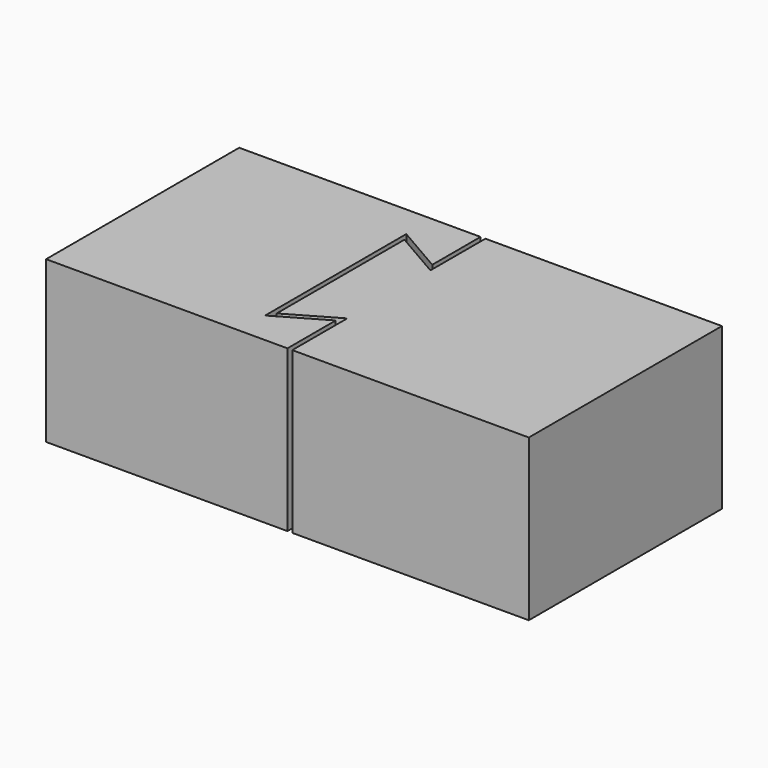
from build123d import *

# Parameters (mm, degrees)
F1_DEPTH = 10
F2_DEPTH = 10


with BuildPart() as f1:
    # F0 (on Top) → F1 (new body)
    with BuildSketch(Plane.XY):
        Polygon((9.362652, 11.106927), (-5.637348, 11.106927), (-5.637348, -3.893073), (9.362652, -3.893073), (9.362652, -0.143073), (6.362652, -1.875124), (6.362652, 3.606927), (6.362652, 9.088978), (9.362652, 7.356927), align=None)
    extrude(amount=F1_DEPTH)


with BuildPart() as f2:
    # F0 (on Top) → F2 (new body)
    with BuildSketch(Plane.XY):
        Polygon((24.362652, 11.106927), (9.662651, 11.106927), (9.662651, 6.837313), (6.662651, 8.569363), (6.662651, 3.606927), (6.662651, -1.355509), (9.662651, 0.376542), (9.662651, -3.893073), (24.362652, -3.893073), align=None)
    extrude(amount=F2_DEPTH)


solid = Compound([f1.part, f2.part])
